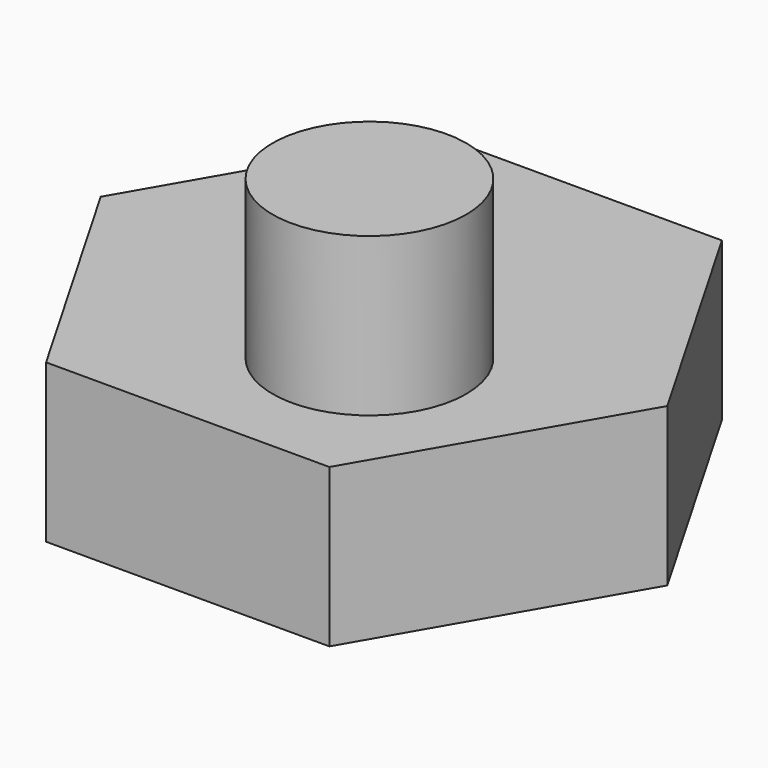
from build123d import *

# Parameters (mm, degrees)
F1_DEPTH = 25.4
F2_R     = 15.567385
F3_DEPTH = 25.4


with BuildPart() as f1:
    # F0 (on Top) → F1 (new body)
    with BuildSketch(Plane.XY):
        Polygon((22.779506, 39.455261), (-22.779506, 39.455261), (-45.559011, 0), (-22.779506, -39.455261), (22.779506, -39.455261), (45.559011, 0), align=None)
    extrude(amount=F1_DEPTH)

    # F2 (on face) → F3 (join)
    with BuildSketch(Plane.XY.offset(25.4)):
        with Locations((8.22944, -13.214378)):
            Circle(F2_R)
    extrude(amount=F3_DEPTH)


solid = f1.part
